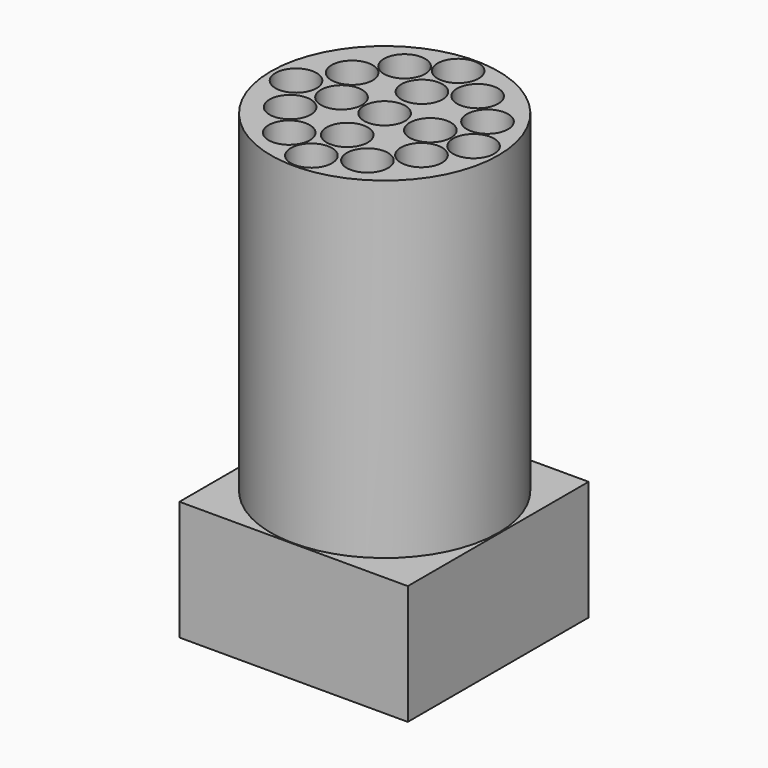
from build123d import *

# Parameters (mm, degrees)
F0_R     = 75.661837
F1_DEPTH = 25.4
F2_R     = 75.661837
F2_R_2   = 13.687901
F3_DEPTH = 195.58
F4_W     = 151.870482
F4_H     = 150.282562
F5_DEPTH = 79.502


with BuildPart() as f1:
    # F0 (on Top) → F1 (new body)
    with BuildSketch(Plane.XY):
        Circle(F0_R)
    extrude(amount=F1_DEPTH)

    # F2 (on face) → F3 (join)
    with BuildSketch(Plane.XY.offset(25.4)):
        Circle(F2_R)
        with Locations((-25.131308, -47.922332)):
            Circle(F2_R_2, mode=Mode.SUBTRACT)
        with Locations((-42.732153, -25.166063)):
            Circle(F2_R_2, mode=Mode.SUBTRACT)
        with Locations((0, -60.893506)):
            Circle(F2_R_2, mode=Mode.SUBTRACT)
        with Locations((26.138142, -46.983935)):
            Circle(F2_R_2, mode=Mode.SUBTRACT)
        with Locations((0, -31.111687)):
            Circle(F2_R_2, mode=Mode.SUBTRACT)
        with Locations((44.296265, -24.778374)):
            Circle(F2_R_2, mode=Mode.SUBTRACT)
        with Locations((-58.921885, 0)):
            Circle(F2_R_2, mode=Mode.SUBTRACT)
        with Locations((-41.716155, 25.125945)):
            Circle(F2_R_2, mode=Mode.SUBTRACT)
        with Locations((-28.695317, 0)):
            Circle(F2_R_2, mode=Mode.SUBTRACT)
        with Locations((-24.919521, 47.710422)):
            Circle(F2_R_2, mode=Mode.SUBTRACT)
        Circle(F2_R_2, mode=Mode.SUBTRACT)
        with Locations((30.379288, 0)):
            Circle(F2_R_2, mode=Mode.SUBTRACT)
        with Locations((0, 30.979946)):
            Circle(F2_R_2, mode=Mode.SUBTRACT)
        with Locations((59.144725, 0)):
            Circle(F2_R_2, mode=Mode.SUBTRACT)
        with Locations((47.558412, 26.046298)):
            Circle(F2_R_2, mode=Mode.SUBTRACT)
        with Locations((25.620574, 45.285549)):
            Circle(F2_R_2, mode=Mode.SUBTRACT)
        with Locations((0, 61.093103)):
            Circle(F2_R_2, mode=Mode.SUBTRACT)
    extrude(amount=F3_DEPTH)

    # F4 (on Top) → F5 (join)
    with BuildSketch(Plane.XY):
        with Locations((0.422429, -1.071021)):
            Rectangle(F4_W, F4_H)
    extrude(amount=-F5_DEPTH)


solid = f1.part
